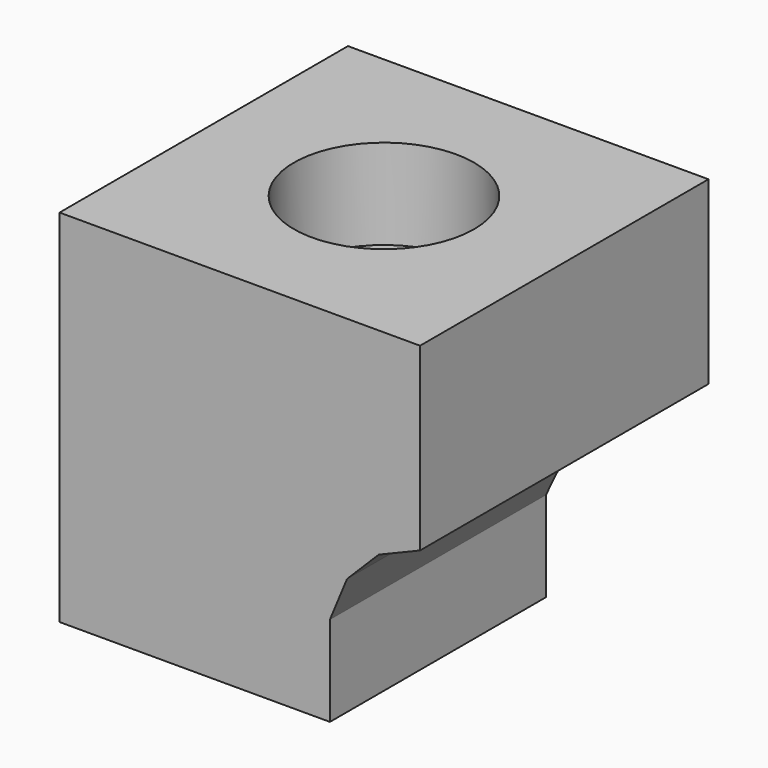
from build123d import *

# Parameters (mm, degrees)
F0_W          = 20
F0_H          = 20
F1_DEPTH      = 20
F3_DEPTH      = 10.001
F3_DEPTH_BACK = 10.001
F5_DEPTH      = 10.001
F5_DEPTH_BACK = 10.001
F6_R          = 5
F7_DEPTH      = 5


with BuildPart() as f1:
    # F0 (on Top) → F1 (new body)
    with BuildSketch(Plane.XY):
        Rectangle(F0_W, F0_H)
    extrude(amount=F1_DEPTH)

    # F2 (on Front) → F3 (cut, two sides)
    with BuildSketch(Plane.XZ) as f3_sk:
        Polygon((5, 5), (5, 0), (10, 0), (10, 10), (7.7059805007, 9.0497860111), (5.9502139889, 7.2940194993), align=None)
    extrude(amount=-F3_DEPTH, mode=Mode.SUBTRACT)
    extrude(f3_sk.sketch, amount=F3_DEPTH_BACK, mode=Mode.SUBTRACT)

    # F4 (on Right) → F5 (cut, two sides)
    with BuildSketch(Plane.YZ) as f5_sk:
        with BuildLine():
            Line((5, 5), (5, 0))
            Line((5, 0), (10, 0))
            Line((10, 0), (10, 10))
            ThreePointArc((10, 10), (6.4644660941, 8.5355339059), (5, 5))
        make_face()
    extrude(amount=-F5_DEPTH, mode=Mode.SUBTRACT)
    extrude(f5_sk.sketch, amount=F5_DEPTH_BACK, mode=Mode.SUBTRACT)

    # F6 (on face) → F7 (cut)
    with BuildSketch(Plane.XY.offset(20)):
        Circle(F6_R)
    extrude(amount=-F7_DEPTH, mode=Mode.SUBTRACT)


solid = f1.part
